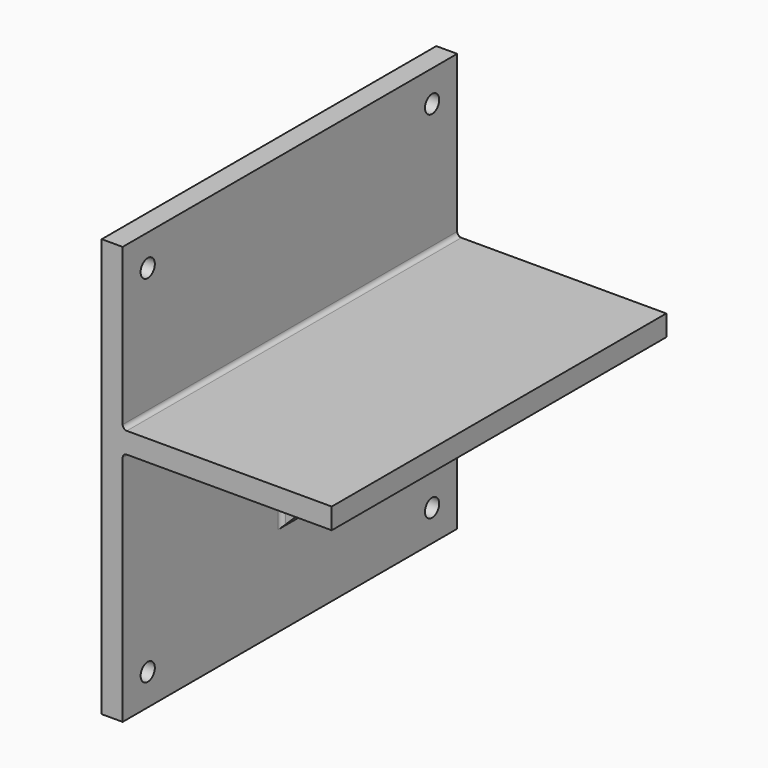
from build123d import *

# Parameters (mm, degrees)
F1_DEPTH = 5
F2_DEPTH = 5
F3_DEPTH = 100
F4_DEPTH = 100
F5_R     = 4.25
F6_DEPTH = 10
F7_R     = 2


with BuildPart() as f1:
    # F0 (on Front) → F1 (new body)
    with BuildSketch(Plane.XZ):
        Polygon((-33.825879693, 2.8445311606), (-33.825879693, -67.1554688394), (36.174120307, 2.8445311606), align=None)
    extrude(amount=F1_DEPTH)

    # F0 (on Front) → F2 (join)
    with BuildSketch(Plane.XZ):
        Polygon((-33.825879693, 2.8445311606), (-33.825879693, -67.1554688394), (36.174120307, 2.8445311606), align=None)
    extrude(amount=-F2_DEPTH)

    # F0 (on Front) → F3 (join)
    with BuildSketch(Plane.XZ):
        Polygon((-43.825879693, 89.6445311606), (-43.825879693, -110.3554688394), (-33.825879693, -110.3554688394), (-33.825879693, -67.1554688394), (-33.825879693, 2.8445311606), (36.174120307, 2.8445311606), (66.174120307, 2.8445311606), (66.174120307, 12.8445311606), (-33.825879693, 12.8445311606), (-33.825879693, 89.6445311606), align=None)
    extrude(amount=F3_DEPTH)

    # F4 (add): a face of the model
    f4_faces = [f1.faces().sort_by_distance(p)[0] for p in [
        (-41.5433372509, 0, -10.3554688394),
    ]]
    extrude(f4_faces, amount=F4_DEPTH)

    # F5 (on face) → F6 (cut)
    with BuildSketch(Plane.YZ.offset(-33.825879693)):
        with Locations((-85, -95.3554688394)):
            Circle(F5_R)
        with Locations((85, -95.3554688394)):
            Circle(F5_R)
        with Locations((85, 74.6445311606)):
            Circle(F5_R)
        with Locations((-85, 74.6445311606)):
            Circle(F5_R)
    extrude(amount=-F6_DEPTH, mode=Mode.SUBTRACT)

    # F7
    f7_edges = [f1.edges().sort_by_distance(p)[0] for p in [
        (-33.82588, -52.5, 2.844531),
        (-33.82588, 52.5, 2.844531),
        (1.17412, 5, 2.844531),
        (-33.82588, 5, -32.155469),
        (1.17412, -5, 2.844531),
        (-33.82588, -5, -32.155469),
        (-33.82588, 0, 12.844531),
    ]]
    fillet(f7_edges, radius=F7_R)


solid = f1.part
